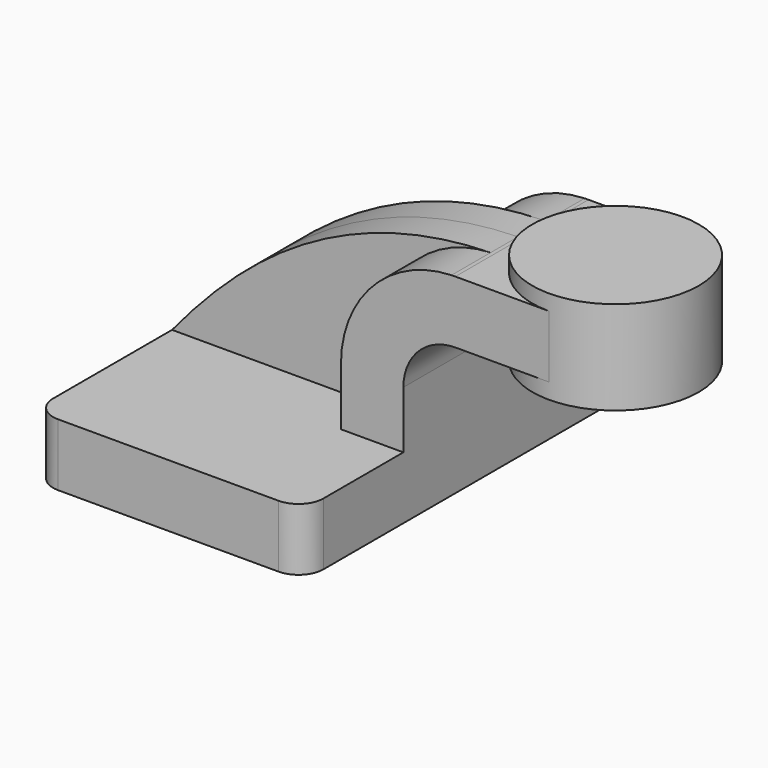
from build123d import *

# Parameters (mm, degrees)
F1_DEPTH = 63.5
F2_DEPTH = 10.4775
F0_W     = 25.4
F0_H     = 19.05
F3_DEPTH = 25.4
F5_R     = 7.62


with BuildPart() as f1:
    # F0 (on Front) → F1 (new body, symmetric)
    with BuildSketch(Plane.XZ):
        Polygon((-41.275, -9.525), (41.275, -9.525), (41.275, 9.525), (22.225, 9.525), (-41.275, 9.525), align=None)
    extrude(amount=F1_DEPTH, both=True)

    # F0 (on Front) → F2 (join, symmetric)
    with BuildSketch(Plane.XZ):
        with BuildLine():
            add(Edge.make_bspline(
                [(-41.275, 9.525), (-24.2267409632, 30.0944438393), (5.5825358431, 60.821203998), (55.971666309, 61.9053164547)],
                knots=[0, 0, 0, 0, 110.6448027751, 110.6448027751, 110.6448027751, 110.6448027751], degree=3))
            Line((-41.275, 9.525), (22.225, 9.525))
            Line((22.225, 9.525), (22.225, 27.0002))
            ThreePointArc((22.225, 27.0002), (32.041147685, 51.2757259556), (55.971666309, 61.9053164547))
        make_face()
    extrude(amount=F2_DEPTH, both=True)

    # F0 (on Front) → F3 (join, symmetric)
    with BuildSketch(Plane.XZ):
        with BuildLine():
            Line((22.225, 9.525), (41.275, 9.525))
            Line((41.275, 9.525), (41.275, 27.0002))
            ThreePointArc((41.275, 27.0002), (45.9246798487, 38.2255201513), (57.15, 42.8752))
            Line((57.15, 42.8752), (60.325, 42.8752))
            Line((60.325, 42.8752), (60.325, 61.9252))
            Line((60.325, 61.9252), (57.15, 61.9252))
            add(Edge.make_bspline(
                [(55.971666309, 61.9053164547), (56.3632004506, 61.9137402364), (56.7559771249, 61.9203743088), (57.15, 61.9252)],
                knots=[110.6448027751, 110.6448027751, 110.6448027751, 110.6448027751, 111.5045361635, 111.5045361635, 111.5045361635, 111.5045361635], degree=3))
            ThreePointArc((55.971666309, 61.9053164547), (32.041147685, 51.2757259556), (22.225, 27.0002))
            Line((22.225, 27.0002), (22.225, 9.525))
        make_face()
        with Locations((73.025, 52.4002)):
            Rectangle(F0_W, F0_H)
    extrude(amount=F3_DEPTH, both=True)

    # F0 (on Front) → F4 (revolve)
    with BuildSketch(Plane.XZ):
        Polygon((85.725, 61.9252), (85.725, 42.8752), (85.725, 38.1), (111.125, 38.1), (111.125, 66.675), (85.725, 66.675), align=None)
    revolve(axis=Axis((85.725, 0, 52.3875), (0, 0, 1)))

    # F5
    f5_edges = [f1.edges().sort_by_distance(p)[0] for p in [
        (41.275, -63.5, 0),
        (-41.275, -63.5, 0),
        (41.275, 63.5, 0),
        (-41.275, 63.5, 0),
    ]]
    fillet(f5_edges, radius=F5_R)


solid = f1.part
